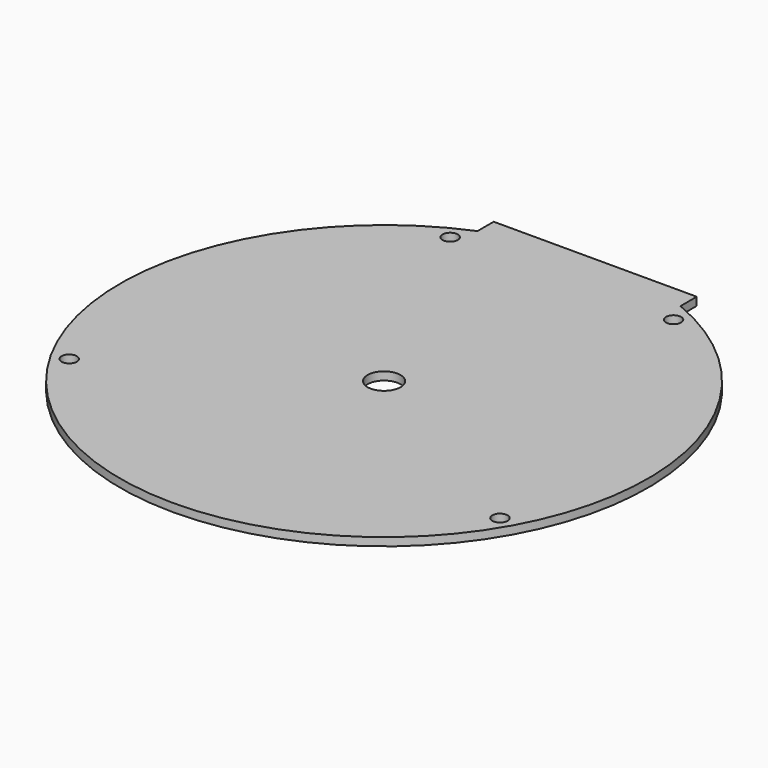
from build123d import *

# Parameters (mm, degrees)
F1_DEPTH = 1.6
F3_D     = 3
F5_D     = 6.5


with BuildPart() as f1:
    # F0 (on Top) → F1 (new body)
    with BuildSketch(Plane.XY):
        with BuildLine():
            Line((-20, 52), (-20, 48))
            ThreePointArc((-20, 48), (0, -52), (20, 48))
            Line((20, 48), (20, 52))
            Line((20, 52), (-20, 52))
        make_face()
    extrude(amount=F1_DEPTH)

    # F3 (through all)
    with Locations(Plane.XY.offset(1.6)):
        with Locations((-22, 43.783559), (22, 43.783559), (42.435245, -24.5), (-42.435245, -24.5)):
            Hole(F3_D / 2)

    # F5 (through all)
    with Locations(Plane.XY.offset(1.6)):
        with Locations((0, 0)):
            Hole(F5_D / 2)


solid = f1.part
